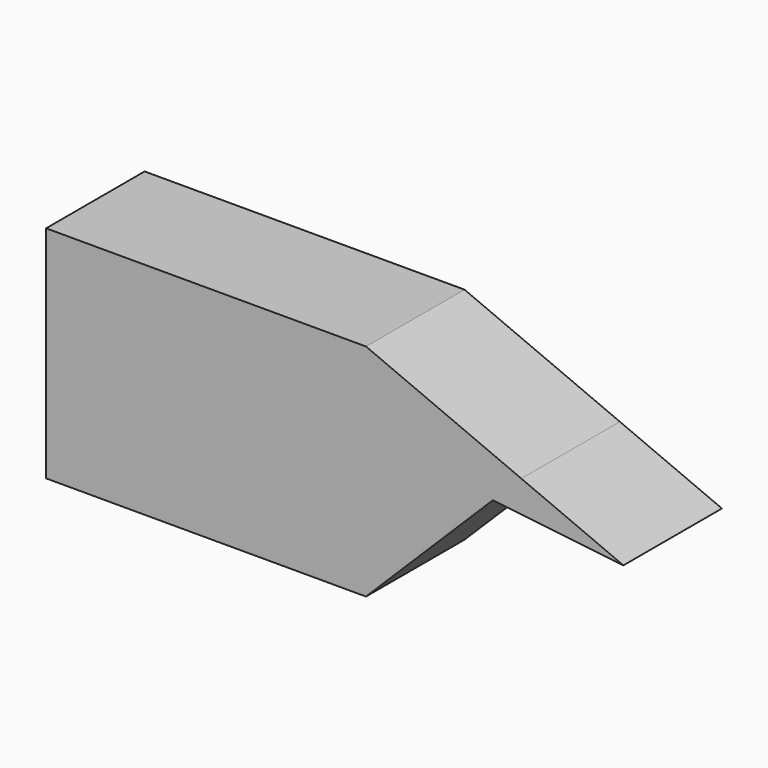
from build123d import *

# Parameters (mm, degrees)
F0_W     = 65.9830570221
F0_H     = 45.4094596207
F1_DEPTH = 25.4


with BuildPart() as f1:
    # F0 (on Front) → F1 (new body)
    with BuildSketch(Plane.XZ):
        with Locations((-32.991528511, 22.7047298104)):
            Rectangle(F0_W, F0_H)
        Polygon((0, 45.4094596207), (0, 0), (26.1765359093, 26.0169209072), (32.039520707, 31.8441553545), align=None)
        Polygon((32.039520707, 31.8441553545), (26.1765359093, 26.0169209072), (53.0907474458, 22.9312162846), align=None)
    extrude(amount=F1_DEPTH)


solid = f1.part
